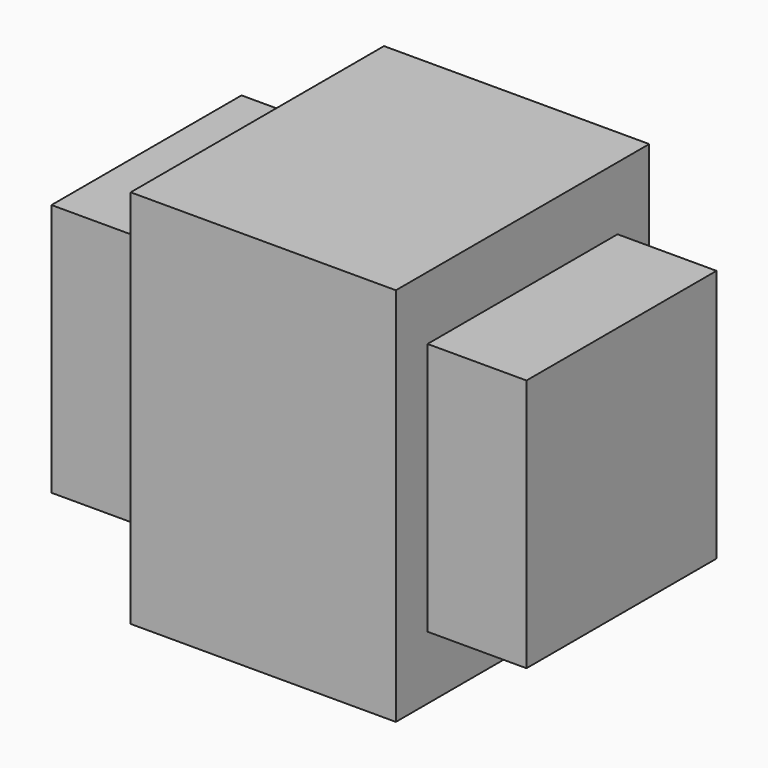
from build123d import *

# Parameters (mm, degrees)
BOX001_W     = 60
BOX001_H     = 30
BOX001_DEPTH = 32
BOX_W        = 33.5
BOX_H        = 40
BOX_DEPTH    = 48


with BuildPart() as box001:
    # Box001 → Box001 (new body)
    with BuildSketch(Plane(origin=(-14, 5, 8), x_dir=(1, 0, 0), z_dir=(0, 0, 1))):
        with Locations((30, 15)):
            Rectangle(BOX001_W, BOX001_H)
    extrude(amount=BOX001_DEPTH)


with BuildPart() as obj1:
    # Box → Box (new body)
    with BuildSketch(Plane.XY):
        with Locations((16.75, 20)):
            Rectangle(BOX_W, BOX_H)
    extrude(amount=BOX_DEPTH)

    # Fusion: union Box001
    add(box001.part)


solid = obj1.part
